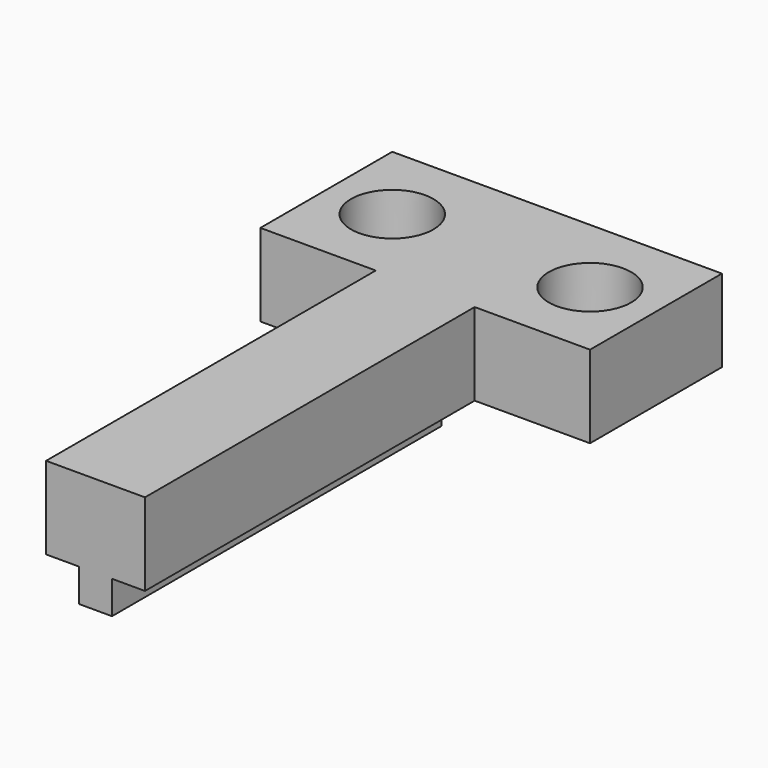
from build123d import *

# Parameters (mm, degrees)
SKETCH_W     = 20
SKETCH_H     = 10
SKETCH_R     = 2.5
PAD_DEPTH    = 5
SKETCH001_W  = 6
SKETCH001_H  = 5
PAD001_DEPTH = 25
SKETCH002_W  = 2
SKETCH002_H  = 25
PAD002_DEPTH = 2


with BuildPart() as part:
    # Sketch → Pad (new body)
    with BuildSketch(Plane.XY):
        Rectangle(SKETCH_W, SKETCH_H)
        with Locations((-6, 0)):
            Circle(SKETCH_R, mode=Mode.SUBTRACT)
        with Locations((6, 0)):
            Circle(SKETCH_R, mode=Mode.SUBTRACT)
    extrude(amount=PAD_DEPTH)

    # Sketch001 → Pad001 (new body)
    with BuildSketch(Plane.XZ.offset(5)):
        with Locations((0, 2.5)):
            Rectangle(SKETCH001_W, SKETCH001_H)
    extrude(amount=PAD001_DEPTH)

    # Sketch002 → Pad002 (new body)
    with BuildSketch(Plane(origin=(0, 0, 0), x_dir=(1, 0, 0), z_dir=(0, 0, -1))):
        with Locations((0, 17.5)):
            Rectangle(SKETCH002_W, SKETCH002_H)
    extrude(amount=PAD002_DEPTH)


solid = part.part
